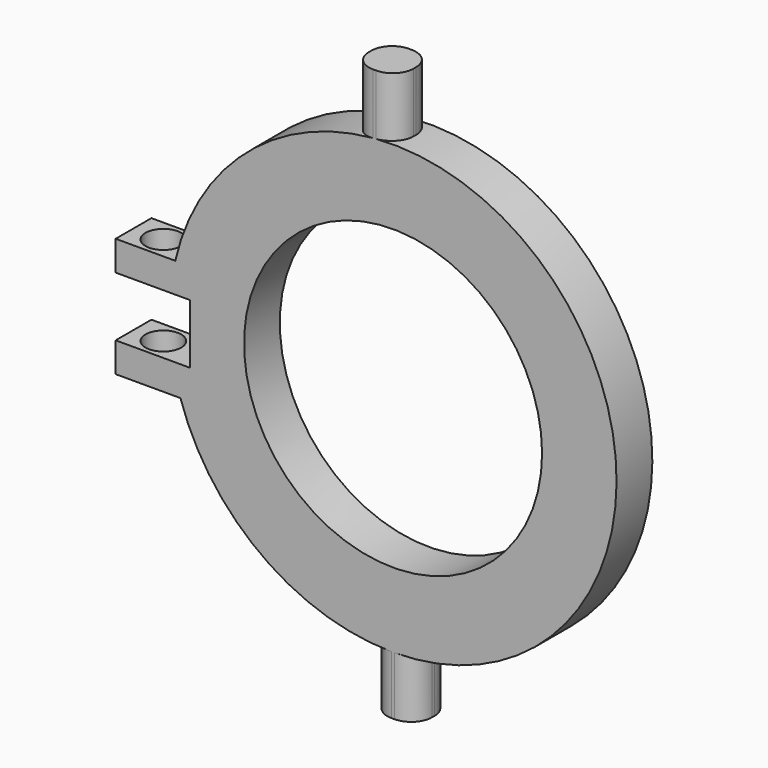
from build123d import *

# Parameters (mm, degrees)
F0_R     = 50
F1_DEPTH = 15
F2_R     = 7
F3_R     = 7
F5_DEPTH = 42.6


with BuildPart() as f1:
    # F0 (on Front) → F1 (new body)
    with BuildSketch(Plane.XZ):
        with BuildLine():
            Line((-13.692577, 94.988603), (-13.692577, 73.739497))
            ThreePointArc((-13.692577, 73.739497), (-51.872276, 54.168874), (-73.077535, 16.872283))
            Line((-73.077535, 16.872283), (-93.077535, 16.872283))
            Line((-93.077535, 16.872283), (-93.077535, 6.872283))
            Line((-93.077535, 6.872283), (-68.077535, 6.872283))
            Line((-68.077535, 6.872283), (-68.077535, -13.127717))
            Line((-68.077535, -13.127717), (-93.077535, -13.127717))
            Line((-93.077535, -13.127717), (-93.077535, -23.127717))
            Line((-93.077535, -23.127717), (-71.344998, -23.127717))
            ThreePointArc((-71.344998, -23.127717), (-47.086109, -58.377207), (-7.5, -74.624058))
            Line((-7.5, -74.624058), (-7.5, -94.624058))
            Line((-7.5, -94.624058), (0, -94.624058))
            Line((0, -94.624058), (7.5, -94.624058))
            Line((7.5, -94.624058), (7.5, -74.624058))
            ThreePointArc((7.5, -74.624058), (74.935838, 3.101649), (1.307423, 74.988603))
            Line((1.307423, 74.988603), (1.307423, 94.988603))
            Line((1.307423, 94.988603), (-6.192577, 94.988603))
            Line((-6.192577, 94.988603), (-13.692577, 94.988603))
        make_face()
        Circle(F0_R, mode=Mode.SUBTRACT)
    extrude(amount=F1_DEPTH)

    # F2
    f2_edges = [f1.edges().sort_by_distance(p)[0] for p in [
        (-7.5, -15, -84.624058),
        (7.5, -15, -84.624058),
        (7.5, 0, -84.624058),
        (-7.5, 0, -84.624058),
    ]]
    fillet(f2_edges, radius=F2_R)

    # F3
    f3_edges = [f1.edges().sort_by_distance(p)[0] for p in [
        (1.307423, -15, 84.988603),
        (1.307423, 0, 84.988603),
        (-13.692577, -15, 84.36405),
        (-13.692577, 0, 84.36405),
    ]]
    fillet(f3_edges, radius=F3_R)

    # F4 (on face) → F5 (cut)
    with BuildSketch(Plane.XY.offset(16.872283)):
        with BuildLine():
            ThreePointArc((-89.077535, -7.5), (-83.077535, -13.5), (-77.077535, -7.5))
            ThreePointArc((-77.077535, -7.5), (-83.077535, -1.5), (-89.077535, -7.5))
        make_face()
    extrude(amount=-F5_DEPTH, mode=Mode.SUBTRACT)


solid = f1.part
